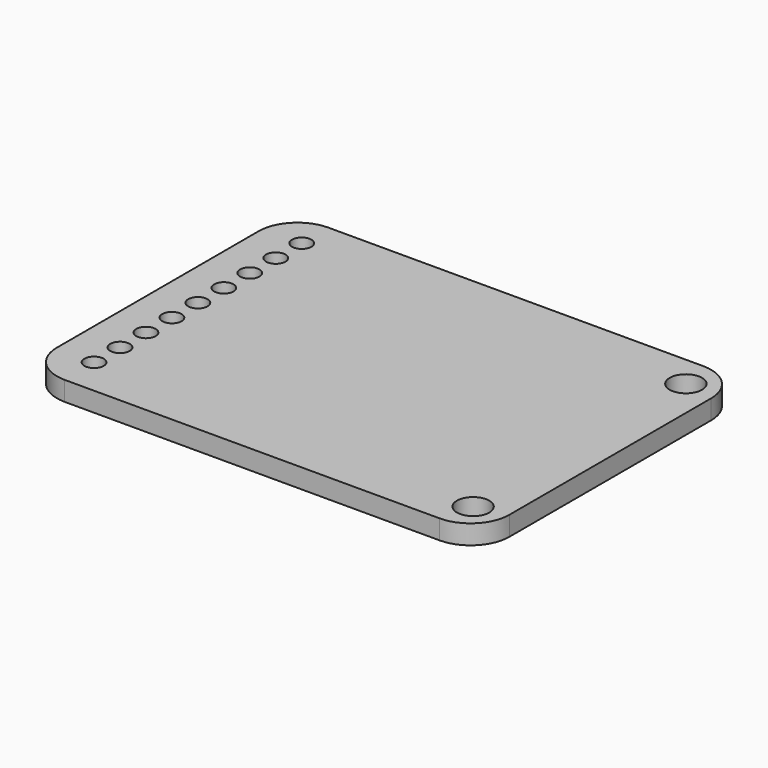
from build123d import *

# Parameters (mm, degrees)
F0_R     = 0.75
F0_R_2   = 1.25
F0_W     = 15.557844
F0_H     = 17.07411
F1_DEPTH = 1.5


with BuildPart() as f1:
    # F0 (on Top) → F1 (new body)
    with BuildSketch(Plane.XY):
        with BuildLine():
            Line((14.5, 12.75), (-14.5, 12.75))
            ThreePointArc((-14.5, 12.75), (-16.62132, 11.87132), (-17.5, 9.75))
            Line((-17.5, 9.75), (-17.5, -9.75))
            ThreePointArc((-17.5, -9.75), (-16.62132, -11.87132), (-14.5, -12.75))
            Line((-14.5, -12.75), (14.5, -12.75))
            ThreePointArc((14.5, -12.75), (16.62132, -11.87132), (17.5, -9.75))
            Line((17.5, -9.75), (17.5, 9.75))
            ThreePointArc((17.5, 9.75), (16.62132, 11.87132), (14.5, 12.75))
        make_face()
        with Locations((-14.548451, -9.849892)):
            Circle(F0_R, mode=Mode.SUBTRACT)
        with Locations((-14.540239, -7.349906)):
            Circle(F0_R, mode=Mode.SUBTRACT)
        with Locations((-14.532028, -4.849919)):
            Circle(F0_R, mode=Mode.SUBTRACT)
        with Locations((-14.523816, -2.349933)):
            Circle(F0_R, mode=Mode.SUBTRACT)
        with Locations((15.120062, -10.284771)):
            Circle(F0_R_2, mode=Mode.SUBTRACT)
        with Locations((-14.515605, 0.150054)):
            Circle(F0_R, mode=Mode.SUBTRACT)
        with Locations((-14.507394, 2.65004)):
            Circle(F0_R, mode=Mode.SUBTRACT)
        with Locations((-14.499182, 5.150027)):
            Circle(F0_R, mode=Mode.SUBTRACT)
        with Locations((-14.490971, 7.650013)):
            Circle(F0_R, mode=Mode.SUBTRACT)
        with Locations((-14.482759, 10.15)):
            Circle(F0_R, mode=Mode.SUBTRACT)
        Rectangle(F0_W, F0_H, mode=Mode.SUBTRACT)
        with Locations((15.120062, 10.284771)):
            Circle(F0_R_2, mode=Mode.SUBTRACT)
        with BuildLine():
            Line((14.5, 12.75), (-14.5, 12.75))
            ThreePointArc((-14.5, 12.75), (-16.62132, 11.87132), (-17.5, 9.75))
            Line((-17.5, 9.75), (-17.5, -9.75))
            ThreePointArc((-17.5, -9.75), (-16.62132, -11.87132), (-14.5, -12.75))
            Line((-14.5, -12.75), (14.5, -12.75))
            ThreePointArc((14.5, -12.75), (16.62132, -11.87132), (17.5, -9.75))
            Line((17.5, -9.75), (17.5, 9.75))
            ThreePointArc((17.5, 9.75), (16.62132, 11.87132), (14.5, 12.75))
        make_face()
        with Locations((-14.548451, -9.849892)):
            Circle(F0_R, mode=Mode.SUBTRACT)
        with Locations((-14.540239, -7.349906)):
            Circle(F0_R, mode=Mode.SUBTRACT)
        with Locations((-14.532028, -4.849919)):
            Circle(F0_R, mode=Mode.SUBTRACT)
        with Locations((-14.523816, -2.349933)):
            Circle(F0_R, mode=Mode.SUBTRACT)
        with Locations((15.120062, -10.284771)):
            Circle(F0_R_2, mode=Mode.SUBTRACT)
        with Locations((-14.515605, 0.150054)):
            Circle(F0_R, mode=Mode.SUBTRACT)
        with Locations((-14.507394, 2.65004)):
            Circle(F0_R, mode=Mode.SUBTRACT)
        with Locations((-14.499182, 5.150027)):
            Circle(F0_R, mode=Mode.SUBTRACT)
        with Locations((-14.490971, 7.650013)):
            Circle(F0_R, mode=Mode.SUBTRACT)
        with Locations((-14.482759, 10.15)):
            Circle(F0_R, mode=Mode.SUBTRACT)
        Rectangle(F0_W, F0_H, mode=Mode.SUBTRACT)
        with Locations((15.120062, 10.284771)):
            Circle(F0_R_2, mode=Mode.SUBTRACT)
        Rectangle(F0_W, F0_H)
    extrude(amount=F1_DEPTH)


solid = f1.part
